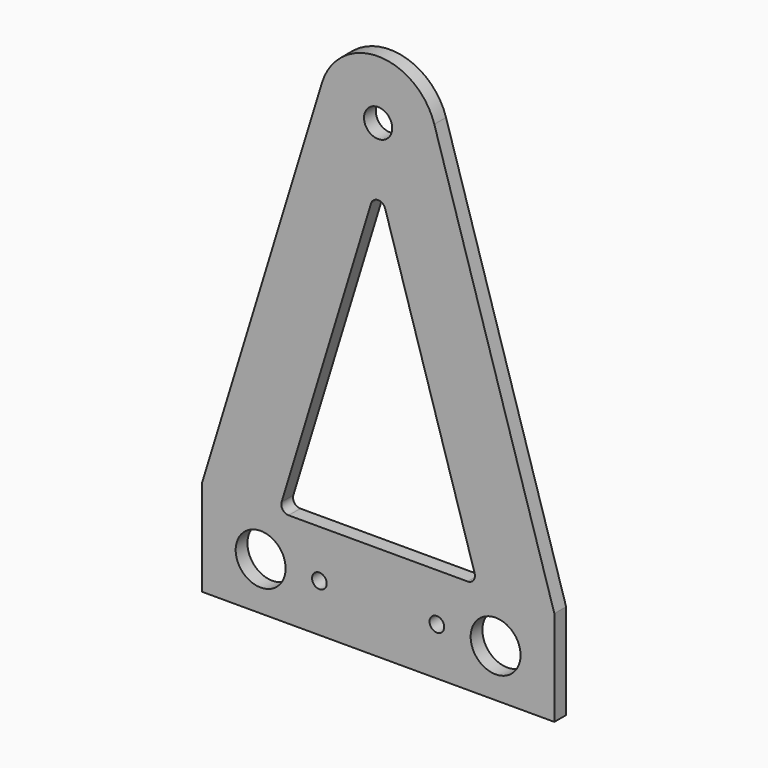
from build123d import *

# Parameters (mm, degrees)
F0_R     = 10.795
F0_R_2   = 3.175
F0_R_3   = 6.096
F1_DEPTH = 6.35


with BuildPart() as f1:
    # F0 (on Front) → F1 (new body)
    with BuildSketch(Plane.XZ):
        with BuildLine():
            Line((-152.4, 0), (0, 0))
            Line((0, 0), (0, 41.275))
            Line((0, 41.275), (-51.915237, 210.64381))
            ThreePointArc((-51.915237, 210.64381), (-76.2, 228.6), (-100.484763, 210.64381))
            Line((-100.484763, 210.64381), (-152.4, 41.275))
            Line((-152.4, 41.275), (-152.4, 0))
        make_face()
        with Locations((-127, 20.6375)):
            Circle(F0_R, mode=Mode.SUBTRACT)
        with Locations((-101.6, 20.6375)):
            Circle(F0_R_2, mode=Mode.SUBTRACT)
        with Locations((-50.8, 20.6375)):
            Circle(F0_R_2, mode=Mode.SUBTRACT)
        with Locations((-25.4, 20.6375)):
            Circle(F0_R, mode=Mode.SUBTRACT)
        with BuildLine():
            Line((-37.502079, 41.275), (-114.897921, 41.275))
            ThreePointArc((-114.897921, 41.275), (-117.450849, 42.562361), (-117.933516, 45.380476))
            Line((-117.933516, 45.380476), (-79.235595, 171.628974))
            ThreePointArc((-79.235595, 171.628974), (-76.2, 173.873498), (-73.164405, 171.628974))
            Line((-73.164405, 171.628974), (-34.466484, 45.380476))
            ThreePointArc((-34.466484, 45.380476), (-34.949151, 42.562361), (-37.502079, 41.275))
        make_face(mode=Mode.SUBTRACT)
        with Locations((-76.2, 203.2)):
            Circle(F0_R_3, mode=Mode.SUBTRACT)
    extrude(amount=F1_DEPTH)


solid = f1.part
